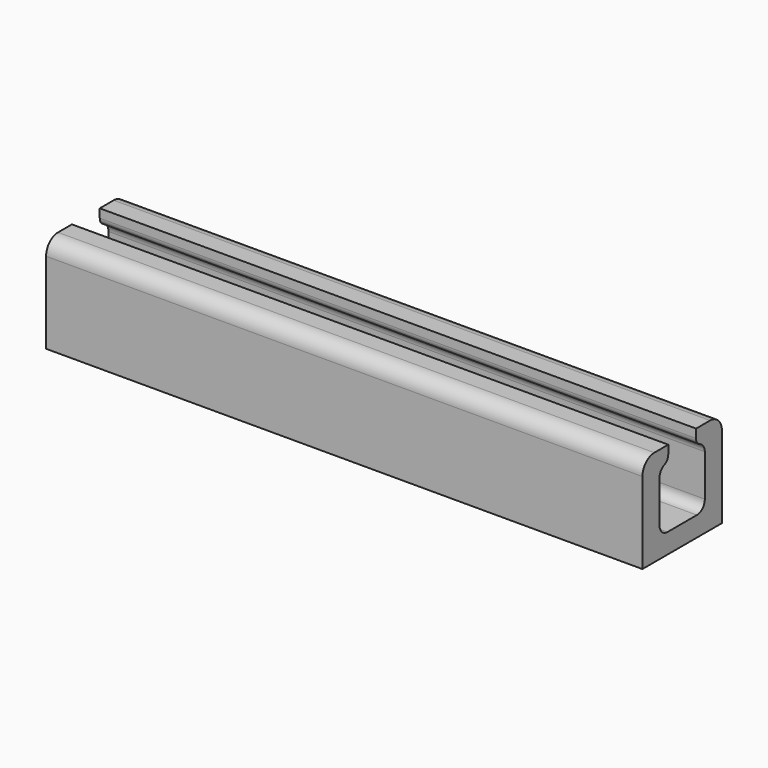
from build123d import *

# Parameters (mm, degrees)
F1_DEPTH = 120
F3_R     = 2
F4_R     = 3
F5_R     = 1.5


with BuildPart() as f1:
    # F0 (on Right) → F1 (new body)
    with BuildSketch(Plane.YZ):
        Polygon((-10, 19.4), (-10, 0), (0, 0), (0, 4), (-5.7, 4), (-5.7, 16.4), (-3.5, 16.4), (-3.5, 19.4), align=None)
    extrude(amount=F1_DEPTH)

    # F2: F1 across plane


with BuildPart() as f1_1:
    add(f1.part)
    add(f1.part.mirror(Plane.XZ))

    # F3
    f3_edges = [f1_1.edges().sort_by_distance(p)[0] for p in [
        (60, -5.7, 16.4),
        (60, -5.7, 4),
        (60, 5.7, 4),
        (60, 5.7, 16.4),
    ]]
    fillet(f3_edges, radius=F3_R)

    # F4
    f4_edges = [f1_1.edges().sort_by_distance(p)[0] for p in [
        (60, -10, 19.4),
        (60, 10, 19.4),
    ]]
    fillet(f4_edges, radius=F4_R)

    # F5
    f5_edges = [f1_1.edges().sort_by_distance(p)[0] for p in [
        (60, -3.5, 16.4),
        (60, 3.5, 16.4),
    ]]
    fillet(f5_edges, radius=F5_R)


solid = f1_1.part
